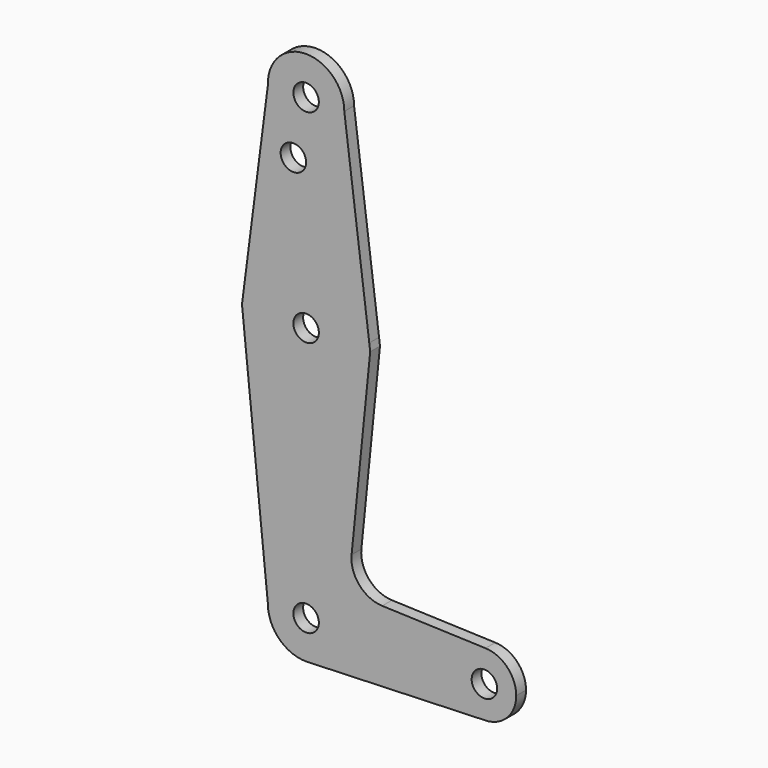
from build123d import *

# Parameters (mm, degrees)
F0_R     = 3.175
F1_DEPTH = 3.048


with BuildPart() as f1:
    # F0 (on Front) → F1 (new body)
    with BuildSketch(Plane.XZ):
        with BuildLine():
            ThreePointArc((9.525, 50.636902), (-0.174536, 60.160303), (-9.518604, 50.287889))
            ThreePointArc((-9.518604, 50.287889), (0.174536, 41.113501), (9.525, 50.636902))
        make_face()
        with Locations((0, 50.636902)):
            Circle(F0_R, mode=Mode.SUBTRACT)
        with BuildLine():
            Line((-9.518604, 50.287889), (-15.745372, 1.861474))
            ThreePointArc((-15.745372, 1.861474), (-10.485121, 11.756543), (0, 15.711902))
            ThreePointArc((0, 15.711902), (10.491283, 11.751121), (15.747457, 1.845192))
            Line((15.747457, 1.845192), (9.525, 50.636902))
            ThreePointArc((9.525, 50.636902), (0.174536, 41.113501), (-9.518604, 50.287889))
        make_face()
        with Locations((-3.175, 36.362102)):
            Circle(F0_R, mode=Mode.SUBTRACT)
        with BuildLine():
            ThreePointArc((0, 15.711902), (-10.485121, 11.756543), (-15.745372, 1.861474))
            ThreePointArc((-15.745372, 1.861474), (-1.014359, -16.005658), (15.875, -0.163098))
            ThreePointArc((15.875, -0.163098), (15.843082, 0.84307), (15.747457, 1.845192))
            ThreePointArc((15.747457, 1.845192), (10.491283, 11.751121), (0, 15.711902))
        make_face()
        with BuildLine():
            ThreePointArc((3.175, 0), (-2.245064, -2.245064), (0, 3.175))
            ThreePointArc((0, 3.175), (2.245064, 2.245064), (3.175, 0))
        make_face(mode=Mode.SUBTRACT)
        with BuildLine():
            ThreePointArc((-9.525, -63.663098), (0, -54.138098), (9.525, -63.663098))
            ThreePointArc((9.525, -63.663098), (6.97129, -70.15361), (0.67949, -73.163831))
            Line((0.67949, -73.163831), (44.45, -71.600598))
            ThreePointArc((44.45, -71.600598), (36.513756, -63.521873), (44.732405, -55.730623))
            Line((44.732405, -55.730623), (18.97159, -54.813509))
            ThreePointArc((18.97159, -54.813509), (13.26401, -52.095228), (11.344237, -46.071939))
            Line((11.344237, -46.071939), (15.982776, 0))
            Line((15.982776, 0), (15.747457, 1.845192))
            ThreePointArc((15.747457, 1.845192), (15.843082, 0.84307), (15.875, -0.163098))
            ThreePointArc((15.875, -0.163098), (-1.014359, -16.005658), (-15.745372, 1.861474))
            Line((-15.745372, 1.861474), (-15.984724, 0))
            Line((-15.984724, 0), (-9.525, -63.663098))
        make_face()
        with BuildLine():
            ThreePointArc((0.67949, -73.163831), (6.97129, -70.15361), (9.525, -63.663098))
            ThreePointArc((9.525, -63.663098), (0, -54.138098), (-9.525, -63.663098))
            ThreePointArc((-9.525, -63.663098), (-6.735192, -70.39829), (0, -73.188098))
            Line((0, -73.188098), (0.67949, -73.163831))
        make_face()
        with Locations((0, -63.663098)):
            Circle(F0_R, mode=Mode.SUBTRACT)
        with BuildLine():
            ThreePointArc((44.732405, -55.730623), (36.513756, -63.521873), (44.45, -71.600598))
            ThreePointArc((44.45, -71.600598), (50.06266, -69.275758), (52.3875, -63.663098))
            ThreePointArc((52.3875, -63.663098), (50.161633, -58.151188), (44.732405, -55.730623))
        make_face()
        with Locations((44.45, -63.663098)):
            Circle(F0_R, mode=Mode.SUBTRACT)
    extrude(amount=F1_DEPTH)


solid = f1.part
